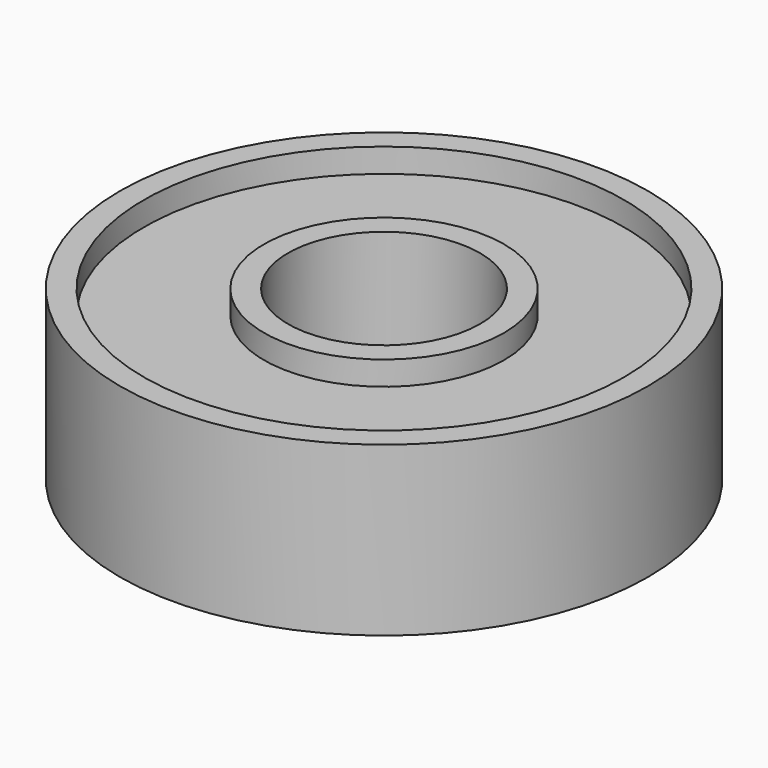
from build123d import *

# Parameters (mm, degrees)
SKETCH_R        = 11
SKETCH_R_2      = 4
PAD_DEPTH       = 7
SKETCH001_R     = 10
SKETCH001_R_2   = 5
POCKET_DEPTH    = 1
SKETCH003_R     = 10
SKETCH003_R_2   = 5
POCKET001_DEPTH = 1


with BuildPart() as part:
    # Sketch → Pad (new body)
    with BuildSketch(Plane.XY):
        Circle(SKETCH_R)
        Circle(SKETCH_R_2, mode=Mode.SUBTRACT)
    extrude(amount=PAD_DEPTH)

    # Sketch001 → Pocket (cut)
    with BuildSketch(Plane.XY.offset(7)):
        Circle(SKETCH001_R)
        Circle(SKETCH001_R_2, mode=Mode.SUBTRACT)
    extrude(amount=-POCKET_DEPTH, mode=Mode.SUBTRACT)

    # Sketch003 → Pocket001 (cut)
    with BuildSketch(Plane(origin=(0, 0, 0), x_dir=(1, 0, 0), z_dir=(0, 0, -1))):
        Circle(SKETCH003_R)
        Circle(SKETCH003_R_2, mode=Mode.SUBTRACT)
    extrude(amount=-POCKET001_DEPTH, mode=Mode.SUBTRACT)


solid = part.part
